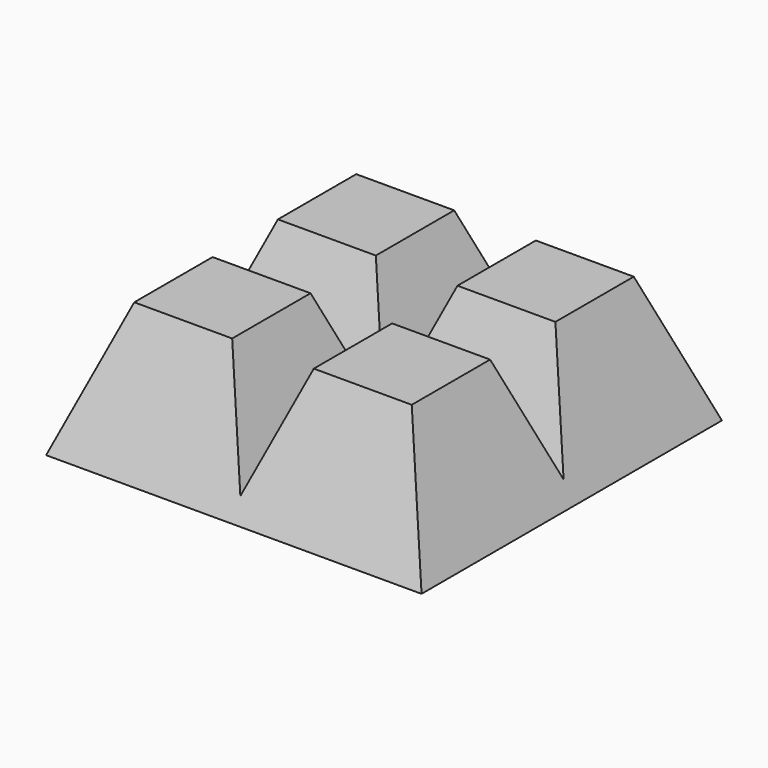
from build123d import *

# Parameters (mm, degrees)
REVOLVE003_ONTO_SKETCH008_ROLL_ANGLE = 90
ARRAY001_X_COUNT                     = 2
ARRAY001_X_PITCH                     = 11
ARRAY001_Y_COUNT                     = 2
ARRAY001_Y_PITCH                     = 11
SKETCH004_W                          = 12
SKETCH004_H                          = 12
SKETCH007_W                          = 6
SKETCH007_H                          = 6
ARRAY_X_COUNT                        = 2
ARRAY_X_PITCH                        = 11
ARRAY_Y_COUNT                        = 2
ARRAY_Y_PITCH                        = 11


with BuildPart() as array001:
    # Sketch008 as drawn → Revolve003 (revolve)
    with BuildSketch(Plane.XY):
        with BuildLine():
            ThreePointArc((4, 0), (2.937254, 4.242641), (0, 7.483315))
            Line((0, 0), (0, 7.483315))
            Line((4, 0), (0, 0))
        make_face()
    revolve(axis=Axis((0, 0, 0), (0, 1, 0)))


with BuildPart() as array001_1:
    # Revolve003 onto Sketch008 roll: moved
    add(array001.part.rotate(Axis((0, 0, 0), (1, 0, 0)), REVOLVE003_ONTO_SKETCH008_ROLL_ANGLE))


with BuildPart() as array001_2:
    # Revolve003 onto Sketch008 placement: moved
    add(array001_1.part)

    # Array001 X: Array001 ×2


with BuildPart() as array001_3:
    add(array001_2.part)
    with Locations(*[(i * ARRAY001_X_PITCH, 0, 0) for i in range(1, ARRAY001_X_COUNT)]):
        add(array001_2.part)

    # Array001 Y: Array001 ×2


with BuildPart() as array001_4:
    add(array001_3.part)
    with Locations(*[(0, i * ARRAY001_Y_PITCH, 0) for i in range(1, ARRAY001_Y_COUNT)]):
        add(array001_3.part)


with BuildPart() as cut:
    # Sketch004 → Loft section 0
    with BuildSketch(Plane(origin=(0, 0, 0), x_dir=(1, 0, 0), z_dir=(0, 0, -1))):
        Rectangle(SKETCH004_W, SKETCH004_H)
    # Sketch007 → Loft section 1
    with BuildSketch(Plane.XY.offset(8)):
        Rectangle(SKETCH007_W, SKETCH007_H)
    loft()

    # Array X: Cut ×2


with BuildPart() as cut_1:
    add(cut.part)
    with Locations(*[(i * ARRAY_X_PITCH, 0, 0) for i in range(1, ARRAY_X_COUNT)]):
        add(cut.part)

    # Array Y: Cut ×2


with BuildPart() as cut_2:
    add(cut_1.part)
    with Locations(*[(0, i * ARRAY_Y_PITCH, 0) for i in range(1, ARRAY_Y_COUNT)]):
        add(cut_1.part)

    # Cut: cut Array001
    add(array001_4.part, mode=Mode.SUBTRACT)


solid = cut_2.part
